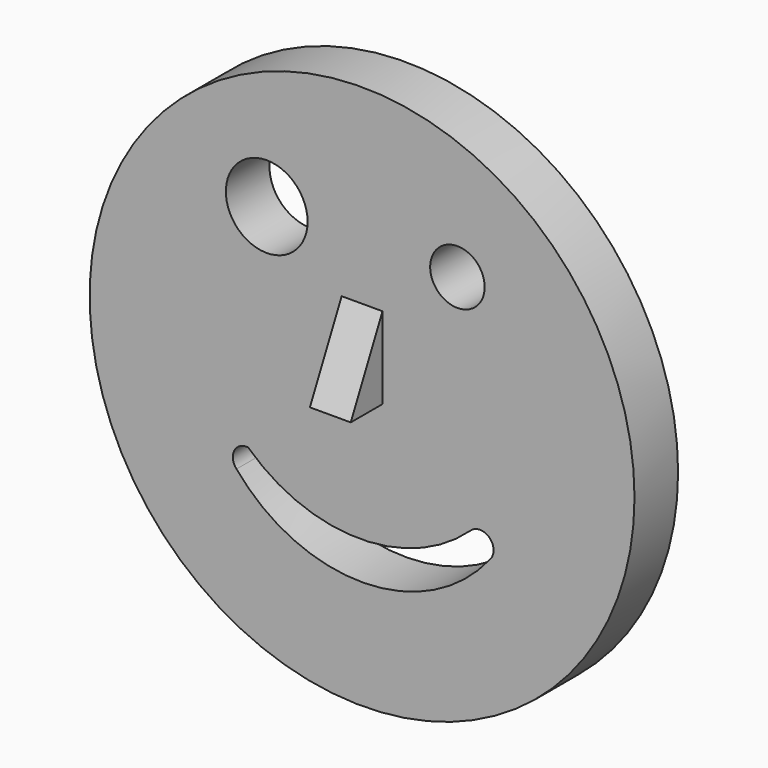
from build123d import *

# Parameters (mm, degrees)
F0_R     = 127
F0_R_2   = 19.05
F0_R_3   = 12.7
F1_DEPTH = 25.4
F3_DEPTH = 9.525


with BuildPart() as f1:
    # F0 (on Front) → F1 (new body)
    with BuildSketch(Plane.XZ):
        Circle(F0_R)
        with BuildLine():
            ThreePointArc((59.600533053, -47.4785894883), (0.8419371325, -76.1953485579), (-58.5368588455, -48.783974382))
            ThreePointArc((-58.5368588455, -48.783974382), (-59.5790507482, -41.5556979317), (-53.1308332302, -38.1271945784))
            ThreePointArc((-53.1308332302, -38.1271945784), (-1.4228139641, -58.7053608917), (50.4858155219, -38.6386130206))
            ThreePointArc((50.4858155219, -38.6386130206), (59.3741479013, -38.5930236288), (59.600533053, -47.4785894883))
        make_face(mode=Mode.SUBTRACT)
        with Locations((-44.45, 63.5)):
            Circle(F0_R_2, mode=Mode.SUBTRACT)
        with Locations((44.45, 63.5)):
            Circle(F0_R_3, mode=Mode.SUBTRACT)
    extrude(amount=F1_DEPTH)

    # F2 (on Right) → F3 (join, symmetric)
    with BuildSketch(Plane.YZ):
        Polygon((-43.9012795687, 0), (-25.4, 0), (-25.4, 38.1), align=None)
    extrude(amount=F3_DEPTH, both=True)


solid = f1.part
